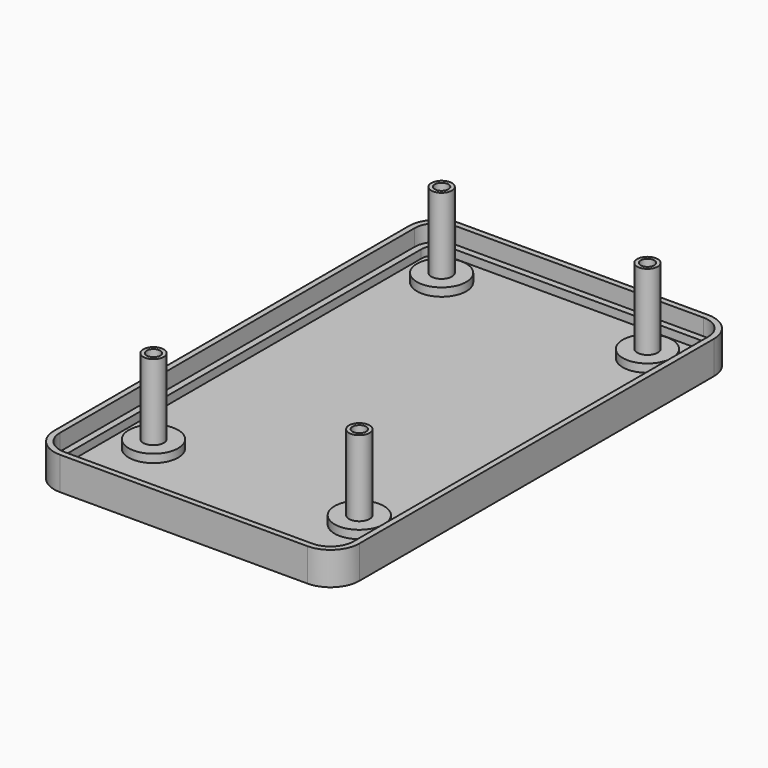
from build123d import *

# Parameters (mm, degrees)
PAD_DEPTH         = 2
PAD001_DEPTH      = 4
PAD002_DEPTH      = 8
SKETCH002_R       = 2.5
PAD003_DEPTH      = 22.4
CYLINDER_R        = 6
CYLINDER_DEPTH    = 4
CYLINDER001_R     = 6
CYLINDER001_DEPTH = 4
CYLINDER002_R     = 6
CYLINDER002_DEPTH = 4
CYLINDER003_R     = 6
CYLINDER003_DEPTH = 4
CYLINDER004_R     = 3
CYLINDER004_DEPTH = 2
CYLINDER005_R     = 3
CYLINDER005_DEPTH = 2
CYLINDER006_R     = 3
CYLINDER006_DEPTH = 2
CYLINDER007_R     = 3
CYLINDER007_DEPTH = 2
SKETCH003_R       = 1.65
POCKET_DEPTH      = 22.4


with BuildPart() as part:
    # Sketch004 → Pad (new body)
    with BuildSketch(Plane.XY):
        with BuildLine():
            Line((74.149994, 7), (74.149994, 114.650046))
            ThreePointArc((74.149994, 114.650046), (72.099741, 119.599793), (67.149994, 121.650046))
            Line((67.149994, 121.650046), (7, 121.650046))
            ThreePointArc((7, 121.650046), (2.050253, 119.599793), (0, 114.650046))
            Line((0, 114.650046), (0, 7))
            ThreePointArc((0, 7), (2.050253, 2.050253), (7, 0))
            Line((7, 0), (67.149994, 0))
            ThreePointArc((67.149994, 0), (72.099741, 2.050253), (74.149994, 7))
        make_face()
    extrude(amount=PAD_DEPTH)

    # Sketch001 → Pad001 (join)
    with BuildSketch(Plane.XY):
        with BuildLine():
            Line((74.149994, 7), (74.149994, 114.650046))
            ThreePointArc((74.149994, 114.650046), (72.099741, 119.599793), (67.149994, 121.650046))
            Line((67.149994, 121.650046), (7, 121.650046))
            ThreePointArc((7, 121.650046), (2.050253, 119.599793), (0, 114.650046))
            Line((0, 114.650046), (0, 7))
            ThreePointArc((0, 7), (2.050253, 2.050253), (7, 0))
            Line((7, 0), (67.149994, 0))
            ThreePointArc((67.149994, 0), (72.099741, 2.050253), (74.149994, 7))
        make_face()
        with BuildLine():
            Line((7, 3), (67.149994, 3))
            ThreePointArc((67.149994, 3), (69.978421, 4.171573), (71.149994, 7))
            Line((71.149994, 7), (71.149994, 114.650046))
            ThreePointArc((71.149994, 114.650046), (69.978421, 117.478473), (67.149994, 118.650046))
            Line((67.149994, 118.650046), (7, 118.650046))
            ThreePointArc((7, 118.650046), (4.171573, 117.478473), (3, 114.650046))
            Line((3, 114.650046), (3, 7))
            ThreePointArc((3, 7), (4.171573, 4.171573), (7, 3))
        make_face(mode=Mode.SUBTRACT)
    extrude(amount=PAD001_DEPTH)

    # Sketch → Pad002 (join)
    with BuildSketch(Plane.XY):
        with BuildLine():
            Line((74.149994, 7), (74.149994, 114.650046))
            ThreePointArc((74.149994, 114.650046), (72.099741, 119.599793), (67.149994, 121.650046))
            Line((67.149994, 121.650046), (7, 121.650046))
            ThreePointArc((7, 121.650046), (2.050253, 119.599793), (0, 114.650046))
            Line((0, 114.650046), (0, 7))
            ThreePointArc((0, 7), (2.050253, 2.050253), (7, 0))
            Line((7, 0), (67.149994, 0))
            ThreePointArc((67.149994, 0), (72.099741, 2.050253), (74.149994, 7))
        make_face()
        with BuildLine():
            Line((7, 1.4), (67.149994, 1.4))
            ThreePointArc((67.149994, 1.4), (71.109792, 3.040202), (72.749994, 7))
            Line((72.749994, 7), (72.749994, 114.650046))
            ThreePointArc((72.749994, 114.650046), (71.109792, 118.609844), (67.149994, 120.250046))
            Line((67.149994, 120.250046), (7, 120.250046))
            ThreePointArc((7, 120.250046), (3.040202, 118.609844), (1.4, 114.650046))
            Line((1.4, 114.650046), (1.4, 7))
            ThreePointArc((1.4, 7), (3.040202, 3.040202), (7, 1.4))
        make_face(mode=Mode.SUBTRACT)
    extrude(amount=PAD002_DEPTH)

    # Sketch002 → Pad003 (join)
    with BuildSketch(Plane.XY):
        with Locations((12.075062, 22.075062)):
            Circle(SKETCH002_R)
        with Locations((12.075024, 109.57503)):
            Circle(SKETCH002_R)
        with Locations((62.075044, 109.575056)):
            Circle(SKETCH002_R)
        with Locations((62.075039, 22.075116)):
            Circle(SKETCH002_R)
    extrude(amount=PAD003_DEPTH)

    # Cylinder → Cylinder (join)
    with BuildSketch(Plane(origin=(12.075062, 22.075062, 0), x_dir=(0, -1, 0), z_dir=(0, 0, 1))):
        Circle(CYLINDER_R)
    extrude(amount=CYLINDER_DEPTH)

    # Cylinder001 → Cylinder001 (join)
    with BuildSketch(Plane(origin=(62.075039, 22.075116, 0), x_dir=(0, -1, 0), z_dir=(0, 0, 1))):
        Circle(CYLINDER001_R)
    extrude(amount=CYLINDER001_DEPTH)

    # Cylinder002 → Cylinder002 (join)
    with BuildSketch(Plane(origin=(62.075044, 109.575056, 0), x_dir=(0, -1, 0), z_dir=(0, 0, 1))):
        Circle(CYLINDER002_R)
    extrude(amount=CYLINDER002_DEPTH)

    # Cylinder003 → Cylinder003 (join)
    with BuildSketch(Plane(origin=(12.075024, 109.57503, 0), x_dir=(0, -1, 0), z_dir=(0, 0, 1))):
        Circle(CYLINDER003_R)
    extrude(amount=CYLINDER003_DEPTH)

    # Cylinder004 → Cylinder004 (cut)
    with BuildSketch(Plane(origin=(12.075062, 22.075062, 0), x_dir=(0, -1, 0), z_dir=(0, 0, 1))):
        Circle(CYLINDER004_R)
    extrude(amount=CYLINDER004_DEPTH, mode=Mode.SUBTRACT)

    # Cylinder005 → Cylinder005 (cut)
    with BuildSketch(Plane(origin=(62.075039, 22.075116, 0), x_dir=(0, -1, 0), z_dir=(0, 0, 1))):
        Circle(CYLINDER005_R)
    extrude(amount=CYLINDER005_DEPTH, mode=Mode.SUBTRACT)

    # Cylinder006 → Cylinder006 (cut)
    with BuildSketch(Plane(origin=(12.075024, 109.57503, 0), x_dir=(0, -1, 0), z_dir=(0, 0, 1))):
        Circle(CYLINDER006_R)
    extrude(amount=CYLINDER006_DEPTH, mode=Mode.SUBTRACT)

    # Cylinder007 → Cylinder007 (cut)
    with BuildSketch(Plane(origin=(62.075044, 109.575056, 0), x_dir=(0, -1, 0), z_dir=(0, 0, 1))):
        Circle(CYLINDER007_R)
    extrude(amount=CYLINDER007_DEPTH, mode=Mode.SUBTRACT)

    # Sketch003 → Pocket (cut)
    with BuildSketch(Plane.XY):
        with Locations((12.075062, 22.075062)):
            Circle(SKETCH003_R)
        with Locations((12.075024, 109.57503)):
            Circle(SKETCH003_R)
        with Locations((62.075044, 109.575056)):
            Circle(SKETCH003_R)
        with Locations((62.075039, 22.075116)):
            Circle(SKETCH003_R)
    extrude(amount=POCKET_DEPTH, mode=Mode.SUBTRACT)


solid = part.part
